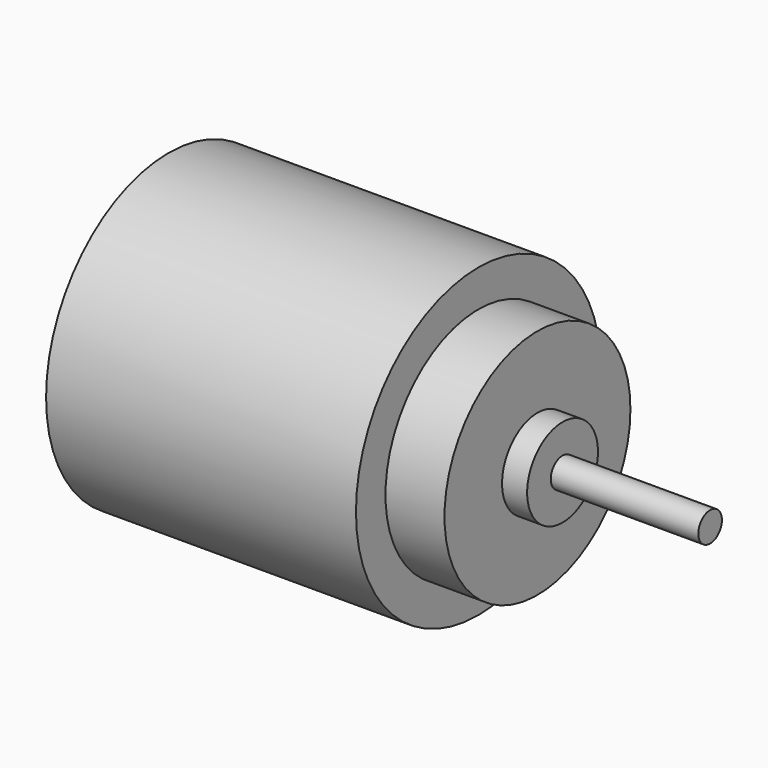
from build123d import *

# Parameters (mm, degrees)
SKETCH_R     = 10.375
PAD_DEPTH    = 21
SKETCH001_R  = 7.875
PAD001_DEPTH = 4
SKETCH002_R  = 3
PAD002_DEPTH = 1.7
SKETCH003_R  = 1
PAD003_DEPTH = 10


with BuildPart() as part:
    # Sketch → Pad (new body)
    with BuildSketch(Plane.YZ):
        Circle(SKETCH_R)
    extrude(amount=PAD_DEPTH)

    # Sketch001 (on Face3 of Pad) → Pad001 (join)
    with BuildSketch(Plane.YZ.offset(21)):
        Circle(SKETCH001_R)
    extrude(amount=PAD001_DEPTH)

    # Sketch002 (on Face5 of Pad001) → Pad002 (join)
    with BuildSketch(Plane.YZ.offset(25)):
        Circle(SKETCH002_R)
    extrude(amount=PAD002_DEPTH)

    # Sketch003 (on Face7 of Pad002) → Pad003 (join)
    with BuildSketch(Plane.YZ.offset(26.7)):
        Circle(SKETCH003_R)
    extrude(amount=PAD003_DEPTH)


solid = part.part
